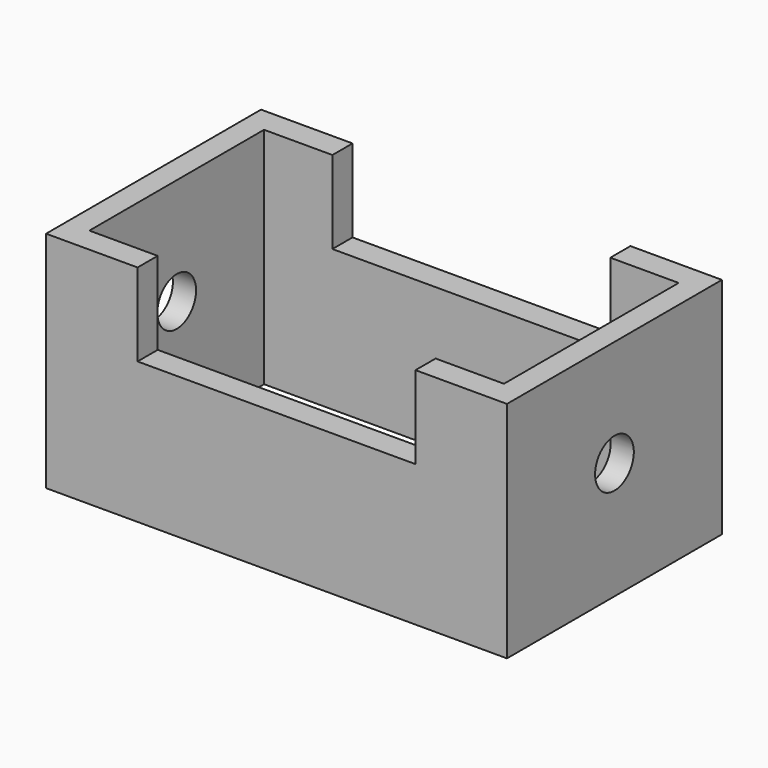
from build123d import *

# Parameters (mm, degrees)
F0_W     = 130.6402087212
F0_H     = 76.1592537165
F1_DEPTH = 63.5
F2_W     = 117.5191476941
F2_H     = 61.8972182274
F3_DEPTH = 63.5
F4_W     = 78.7710472941
F4_H     = 23.4558616281
F5_DEPTH = 101.6
F6_R     = 6.8576505009
F7_DEPTH = 152.4


with BuildPart() as f1:
    # F0 (on Top) → F1 (new body)
    with BuildSketch(Plane.XY):
        Rectangle(F0_W, F0_H)
    extrude(amount=F1_DEPTH)

    # F2 (on face) → F3 (cut)
    with BuildSketch(Plane.XY.offset(63.5)):
        Rectangle(F2_W, F2_H)
    extrude(amount=-F3_DEPTH, mode=Mode.SUBTRACT)

    # F4 (on face) → F5 (cut)
    with BuildSketch(Plane.XZ.offset(38.0796268582)):
        with Locations((0, 51.772069186)):
            Rectangle(F4_W, F4_H)
    extrude(amount=-F5_DEPTH, mode=Mode.SUBTRACT)

    # F6 (on face) → F7 (cut)
    with BuildSketch(Plane(origin=(-65.3201043606, 0, 0), x_dir=(0, -1, 0), z_dir=(-1, 0, 0))):
        with Locations((0, 33.230535686)):
            Circle(F6_R)
    extrude(amount=-F7_DEPTH, mode=Mode.SUBTRACT)


solid = f1.part
